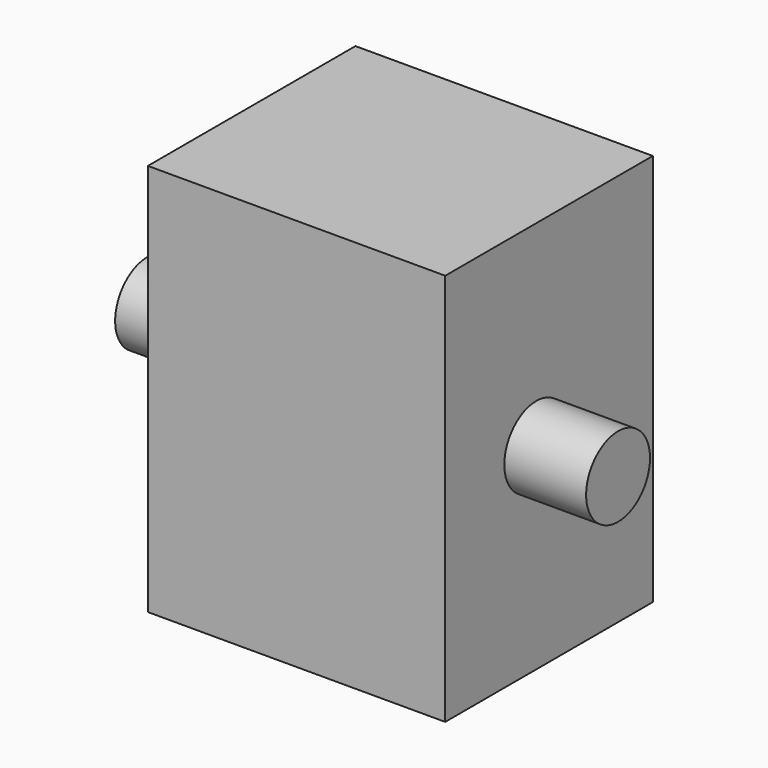
from build123d import *

# Parameters (mm, degrees)
F0_W     = 38.4564194828
F0_H     = 33.5525823757
F1_DEPTH = 25.4
F2_W     = 60.9108451754
F2_H     = 5.1619354635


with BuildPart() as f1:
    # F0 (on Top) → F1 (new body, symmetric)
    with BuildSketch(Plane.XY):
        with Locations((0.3871461377, 2.0647742786)):
            Rectangle(F0_W, F0_H)
    extrude(amount=F1_DEPTH, both=True)

    # F2 (on Top) → F3 (revolve)
    with BuildSketch(Plane.XY):
        with Locations((-0.2580946311, 2.5809677318)):
            Rectangle(F2_W, F2_H)
    revolve(axis=Axis((-0.2580946311, 0, 0), (1, 0, 0)))


solid = f1.part
